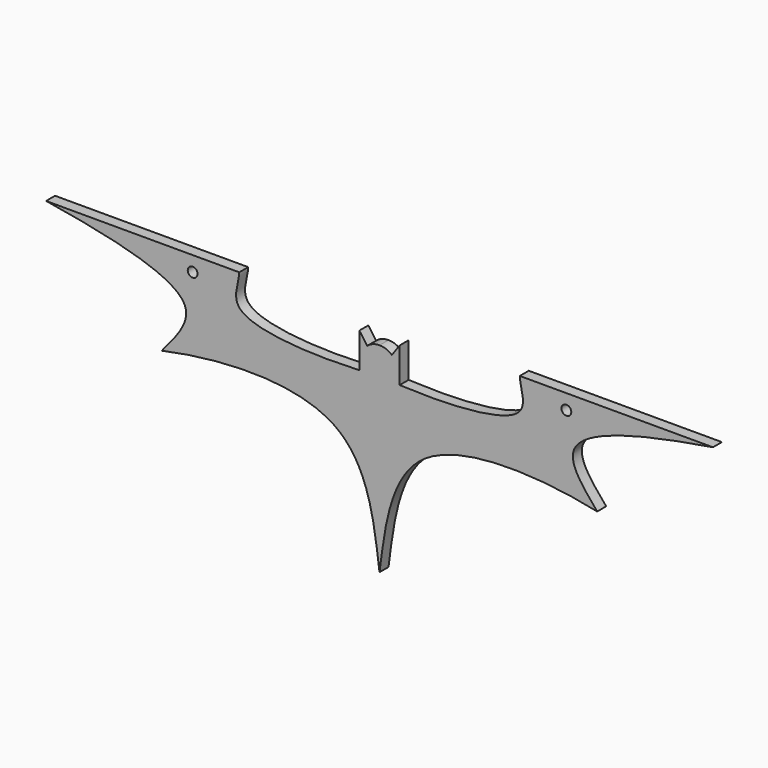
from build123d import *

# Parameters (mm, degrees)
F0_R     = 1.1097651403
F1_DEPTH = 2.54


with BuildPart() as f1:
    # F0 (on Front) → F1 (new body)
    with BuildSketch(Plane.XZ):
        with BuildLine():
            Line((-4.557562992, 7.910063397), (-4.557562992, 0))
            add(Edge.make_bspline(
                [(-4.557562992, 0), (-12.9514320944, -0.4188610581), (-36.412953424, -0.1898484015), (-31.7842442705, 8.5340817772), (-31.75, 10.6709823179)],
                knots=[0, 0, 0, 0, 0.6635364911, 1, 1, 1, 1], degree=3))
            Line((-31.75, 10.6709823179), (-75.4680782557, 10.6709823179))
            add(Edge.make_bspline(
                [(-49.2693148553, -10.6498301029), (-46.0259300723, -6.807783546), (-37.3640144911, 3.2144385809), (-60.7846700376, 8.2912969671), (-75.4680782557, 10.6709823179)],
                knots=[0, 0, 0, 0, 0.374177375, 1, 1, 1, 1], degree=3))
            add(Edge.make_bspline(
                [(-49.2693148553, -10.6498301029), (-37.7900837071, -8.1329357734), (-3.0088601501, -4.8538091253), (-1.1061998076, -30.7924250346), (0, -38.7736447155)],
                knots=[0, 0, 0, 0, 0.5473538922, 1, 1, 1, 1], degree=3))
            add(Edge.make_bspline(
                [(49.2693148553, -10.6498301029), (37.7900837071, -8.1329357734), (3.0088601501, -4.8538091253), (1.1061998076, -30.7924250346), (0, -38.7736447155)],
                knots=[0, 0, 0, 0, 0.5473538922, 1, 1, 1, 1], degree=3))
            add(Edge.make_bspline(
                [(49.2693148553, -10.6498301029), (46.0259300723, -6.807783546), (37.3640144911, 3.2144385809), (60.7846700376, 8.2912969671), (75.4680782557, 10.6709823179)],
                knots=[0, 0, 0, 0, 0.374177375, 1, 1, 1, 1], degree=3))
            Line((75.4680782557, 10.6709823179), (31.75, 10.6709823179))
            add(Edge.make_bspline(
                [(4.557562992, 0), (12.9514320944, -0.4188610581), (36.412953424, -0.1898484015), (31.7842442705, 8.5340817772), (31.75, 10.6709823179)],
                knots=[0, 0, 0, 0, 0.6635364911, 1, 1, 1, 1], degree=3))
            Line((4.557562992, 0), (4.557562992, 7.910063397))
            Line((4.557562992, 7.910063397), (2.7975548114, 5.4277019211))
            ThreePointArc((2.7975548114, 5.4277019211), (1.4915655791, 6.1961948194), (0, 6.4634425184))
            ThreePointArc((0, 6.4634425184), (-1.4915655791, 6.1961948194), (-2.7975548114, 5.4277019211))
            Line((-2.7975548114, 5.4277019211), (-4.557562992, 7.910063397))
        make_face()
        with Locations((-42.2958955169, 7.2708046064)):
            Circle(F0_R, mode=Mode.SUBTRACT)
        with Locations((42.2958955169, 7.2708046064)):
            Circle(F0_R, mode=Mode.SUBTRACT)
    extrude(amount=F1_DEPTH)


solid = f1.part
